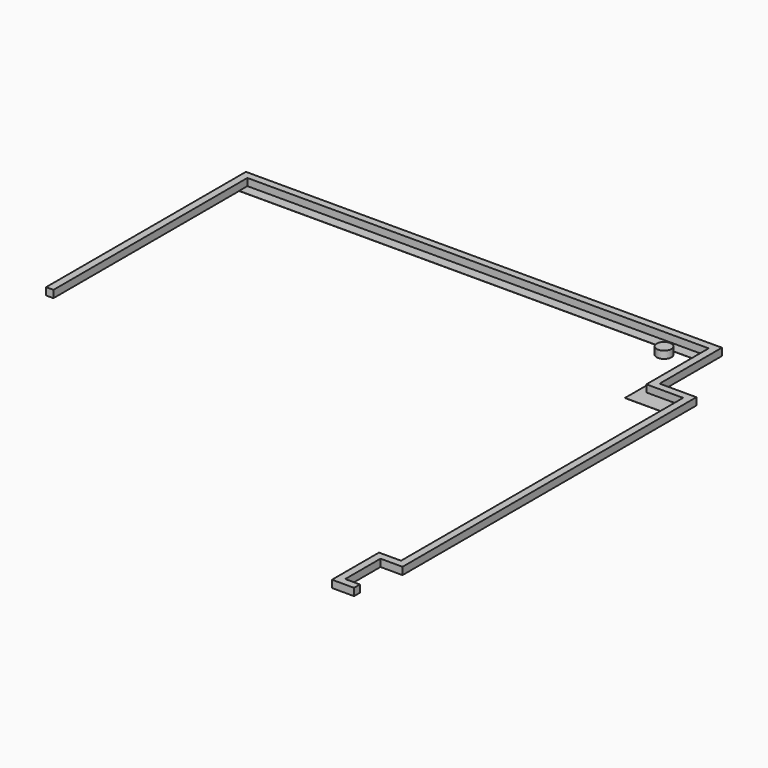
from build123d import *

# Parameters (mm, degrees)
F1_R     = 50
F2_DEPTH = 50
F4_DEPTH = 1


with BuildPart() as f2:
    # F1 (on Top) → F2 (new body)
    with BuildSketch(Plane.XY):
        Polygon((-3390, -1650), (-3390, 0), (-250, 0), (-250, -530), (0, -530), (0, -2930), (-150, -2930), (-150, -3330), (0, -3330), (0, -3280), (-100, -3280), (-100, -2980), (50, -2980), (50, -480), (-200, -480), (-200, 50), (-3440, 50), (-3440, -1650), align=None)
        with Locations((-450, -130)):
            Circle(F1_R)
    extrude(amount=F2_DEPTH)


with BuildPart() as f4:
    # F3 (on Top) → F4 (new body)
    with BuildSketch(Plane.XY):
        Polygon((-3390, 0), (-3390, -70), (-300, -70), (-300, -650), (0, -650), (0, -530), (-250, -530), (-250, 0), align=None)
    extrude(amount=F4_DEPTH)


solid = Compound([f2.part, f4.part])
